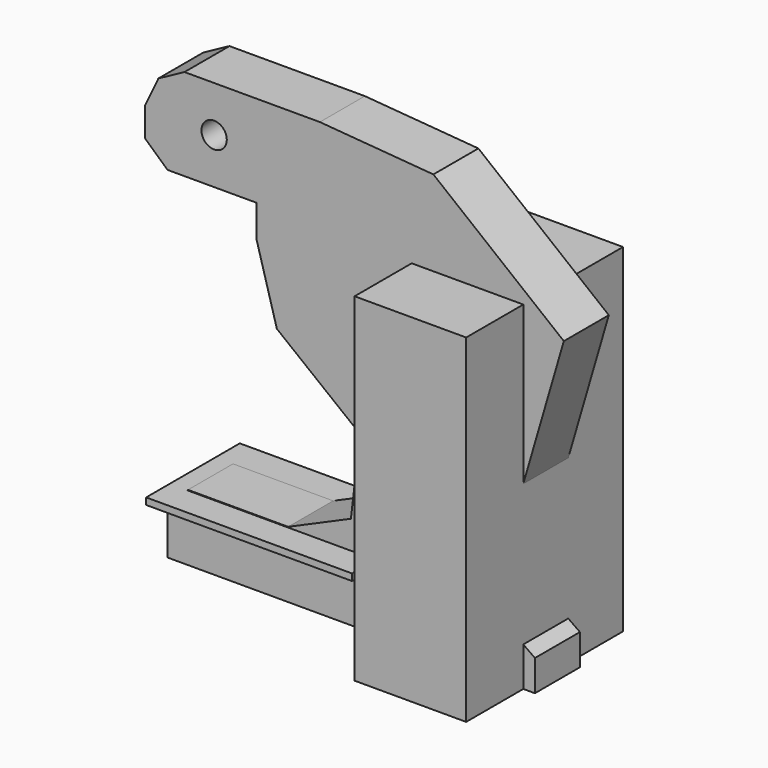
from build123d import *

# Parameters (mm, degrees)
F0_R     = 2.843531
F1_DEPTH = 12.6
F3_W     = 43.916751
F3_H     = 75.827486
F4_DEPTH = 25
F6_W     = 46.128386
F6_H     = 26.223674
F7_DEPTH = 1.5


with BuildPart() as f1:
    # F0 (on Front) → F1 (new body)
    with BuildSketch(Plane.XZ):
        Polygon((52.60532, -59.951108), (45.654465, -55.053912), (49.761787, -27.250502), (59.082251, 4.660231), (29.857071, 28.040372), (4.423271, 30.094033), (-25.907725, 30.094033), (-31.752758, 26.934555), (-34.754265, 20.615598), (-34.754265, 14.138667), (-29.699098, 9.557423), (-9.794383, 9.557423), (-9.794383, 2.448596), (-5.21314, -13.822719), (13.427783, -28.514294), (11.374122, -45.891427), (-2.685557, -52.052412), (-25.117856, -52.052412), (-29.699098, -58.21339), (-29.699098, -66.901959), (52.60532, -66.901959), align=None)
        with Locations((-19.272819, 19.825729)):
            Circle(F0_R, mode=Mode.SUBTRACT)
    extrude(amount=F1_DEPTH)

    # F3 (on offset) → F4 (join)
    with BuildSketch(Plane.YZ.offset(25)):
        with Locations((-6.634905, -28.988216)):
            Rectangle(F3_W, F3_H)
    extrude(amount=F4_DEPTH)

    # F6 (on offset) → F7 (join)
    with BuildSketch(Plane.XY.offset(-52.2)):
        with Locations((-6.160983, -6.081997)):
            Rectangle(F6_W, F6_H)
    extrude(amount=-F7_DEPTH)


solid = f1.part
